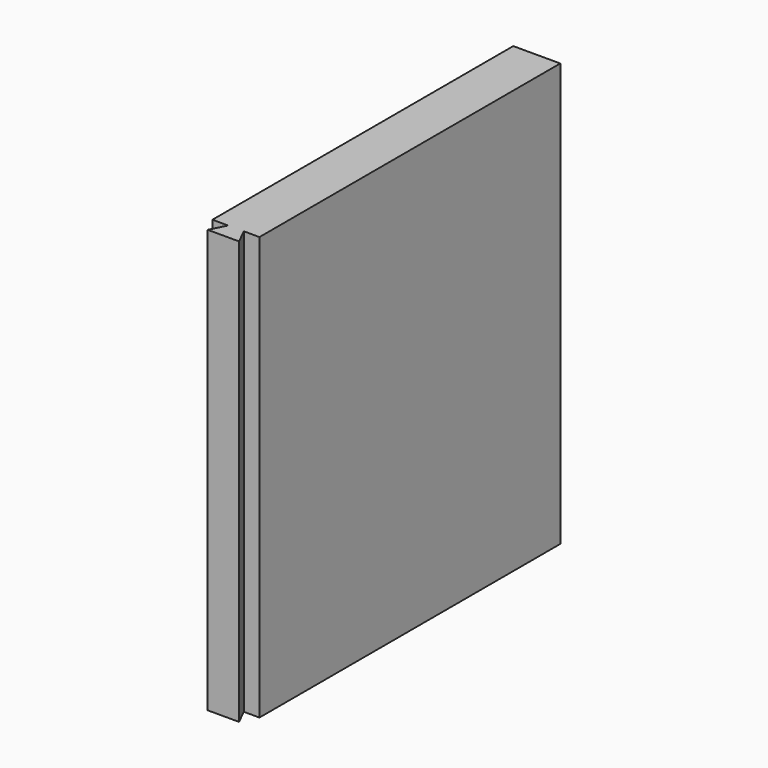
from build123d import *

# Parameters (mm, degrees)
F0_W     = 38.1
F0_H     = 342.9
F1_DEPTH = 304.8
F3_DEPTH = 342.9


with BuildPart() as f1:
    # F0 (on Front) → F1 (new body)
    with BuildSketch(Plane.XZ):
        Rectangle(F0_W, F0_H)
    extrude(amount=F1_DEPTH)

    # F2 (on face) → F3 (join)
    with BuildSketch(Plane(origin=(0, 0, -171.45), x_dir=(1, 0, 0), z_dir=(0, 0, -1))):
        Polygon((-12.7, 317.5), (-6.35, 304.8), (6.35, 304.8), (12.7, 317.5), align=None)
    extrude(amount=-F3_DEPTH)


solid = f1.part
